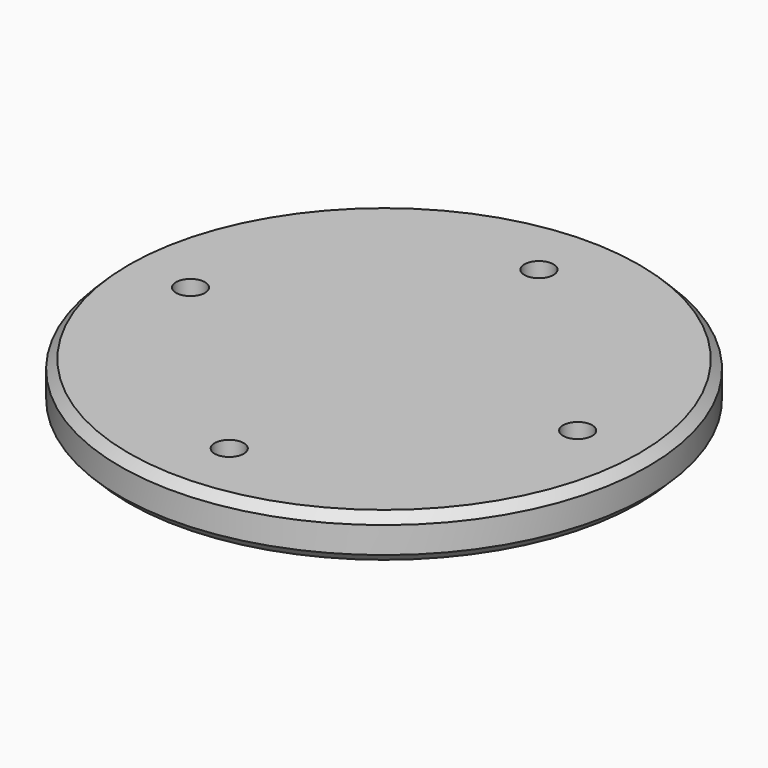
from build123d import *

# Parameters (mm, degrees)
SKETCH003_R     = 30
PAD002_DEPTH    = 5
SKETCH004_R     = 1.65
POCKET001_DEPTH = 6
SKETCH005_R     = 3.5
POCKET002_DEPTH = 2
CHAMFER001_SIZE = 1


with BuildPart() as part:
    # Sketch003 → Pad002 (new body)
    with BuildSketch(Plane.XY):
        Circle(SKETCH003_R)
    extrude(amount=-PAD002_DEPTH)

    # Sketch004 (on Face3 of Pad002) → Pocket001 (cut)
    with BuildSketch(Plane(origin=(0, 0, -5), x_dir=(1, 0, 0), z_dir=(0, 0, -1))):
        with Locations((0, 22)):
            Circle(SKETCH004_R)
        with Locations((-22, 0)):
            Circle(SKETCH004_R)
        with Locations((22, 0)):
            Circle(SKETCH004_R)
        with Locations((0, -22)):
            Circle(SKETCH004_R)
    extrude(amount=-POCKET001_DEPTH, mode=Mode.SUBTRACT)

    # Sketch005 (on Face3 of Pocket001) → Pocket002 (cut)
    with BuildSketch(Plane(origin=(0, 0, -5), x_dir=(1, 0, 0), z_dir=(0, 0, -1))):
        with Locations((0, 22)):
            Circle(SKETCH005_R)
        with Locations((-22, 0)):
            Circle(SKETCH005_R)
        with Locations((22, 0)):
            Circle(SKETCH005_R)
        with Locations((0, -22)):
            Circle(SKETCH005_R)
    extrude(amount=-POCKET002_DEPTH, mode=Mode.SUBTRACT)

    # Chamfer001
    chamfer001_edges = [part.edges().sort_by_distance(p)[0] for p in [
        (-30, 0, -5),
        (-30, 0, 0),
    ]]
    chamfer(chamfer001_edges, length=CHAMFER001_SIZE)


with BuildPart() as part_1:
    # Body001 placement: moved
    add(part.part.moved(Location((0, 0, -79))))


solid = part_1.part
